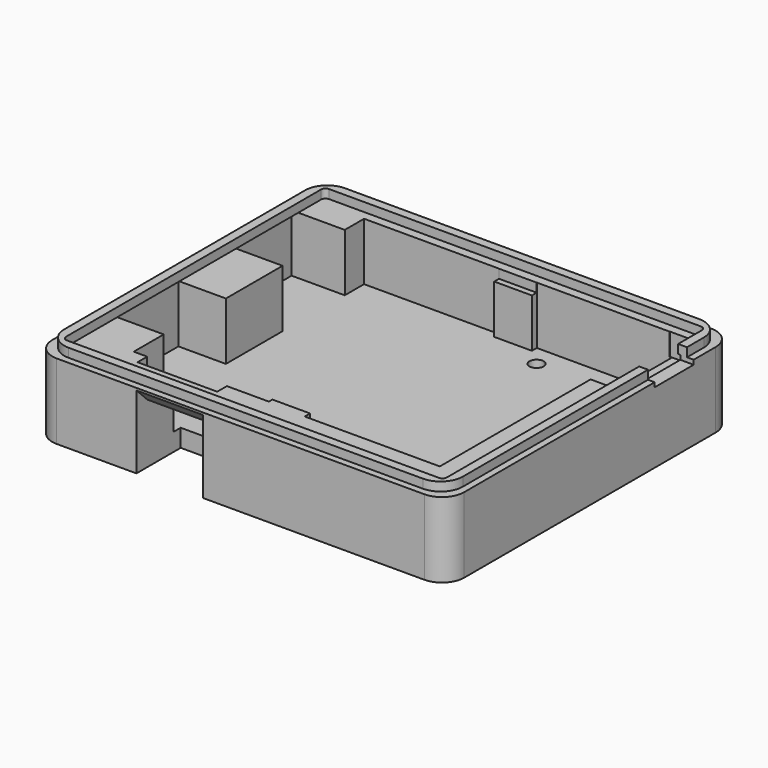
from build123d import *

# Parameters (mm, degrees)
SKETCH_W        = 93
SKETCH_H        = 81
PAD_DEPTH       = 17
SKETCH001_W     = 30.5
SKETCH001_H     = 65.5
POCKET_DEPTH    = 13
SKETCH002_W     = 30.5
SKETCH002_H     = 65
POCKET001_DEPTH = 13
SKETCH003_W     = 13.6458
SKETCH003_H     = 16
POCKET002_DEPTH = 13
SKETCH004_W     = 16.2724
SKETCH004_H     = 17.55
POCKET003_DEPTH = 13
SKETCH005_W     = 15.0186
SKETCH005_H     = 42.9244
POCKET004_DEPTH = 13
SKETCH006_W     = 15
SKETCH006_H     = 25.952942
POCKET005_DEPTH = 12
SKETCH007_W     = 18
SKETCH007_H     = 6.009419
POCKET006_DEPTH = 5
SKETCH009_W     = 7
SKETCH009_H     = 23
POCKET008_DEPTH = 5
SKETCH010_W     = 11.0603
SKETCH010_H     = 11
POCKET009_DEPTH = 1
SKETCH011_W     = 6.5
SKETCH011_H     = 6.5
POCKET010_DEPTH = 17.001
SKETCH014_W     = 16.1
SKETCH014_H     = 12
POCKET011_DEPTH = 5
SKETCH016_R     = 1.6
POCKET012_DEPTH = 12.001
SKETCH017_W     = 90
SKETCH017_H     = 78
SKETCH017_W_2   = 86
SKETCH017_H_2   = 74
PAD001_DEPTH    = 2
SKETCH021_W     = 7.24647
SKETCH021_H     = 11
POCKET013_DEPTH = 3
SKETCH020_R     = 2.8
POCKET014_DEPTH = 2
CHAMFER_SIZE    = 1.5
CHAMFER001_SIZE = 4.5
CHAMFER002_SIZE = 2
FILLET_R        = 1
FILLET001_R     = 5
FILLET002_R     = 5
SKETCH022_W     = 11.3729
SKETCH022_H     = 7.67559
POCKET015_DEPTH = 7
SKETCH023_W     = 9.10313
SKETCH023_H     = 1.48191
POCKET016_DEPTH = 2


with BuildPart() as part:
    # Sketch → Pad (new body)
    with BuildSketch(Plane.XY):
        with Locations((-1.5, 0)):
            Rectangle(SKETCH_W, SKETCH_H)
    extrude(amount=PAD_DEPTH)

    # Sketch001 → Pocket (cut)
    with BuildSketch(Plane.XY.offset(17)):
        with Locations((20.25, 2.25)):
            Rectangle(SKETCH001_W, SKETCH001_H)
    extrude(amount=-POCKET_DEPTH, mode=Mode.SUBTRACT)

    # Sketch002 → Pocket001 (cut)
    with BuildSketch(Plane.XY.offset(17)):
        with Locations((-18.75, 2.5)):
            Rectangle(SKETCH002_W, SKETCH002_H)
    extrude(amount=-POCKET001_DEPTH, mode=Mode.SUBTRACT)

    # Sketch003 → Pocket002 (cut)
    with BuildSketch(Plane.XY.offset(17)):
        with Locations((0, -15)):
            Rectangle(SKETCH003_W, SKETCH003_H)
    extrude(amount=-POCKET002_DEPTH, mode=Mode.SUBTRACT)

    # Sketch004 → Pocket003 (cut)
    with BuildSketch(Plane.XY.offset(17)):
        with Locations((-37.8638, 20.775)):
            Rectangle(SKETCH004_W, SKETCH004_H)
        with Locations((-36.586784, -12.775)):
            Rectangle(SKETCH004_W, SKETCH004_H)
    extrude(amount=-POCKET003_DEPTH, mode=Mode.SUBTRACT)

    # Sketch005 → Pocket004 (cut)
    with BuildSketch(Plane.XY.offset(17)):
        with Locations((0, 12.1505)):
            Rectangle(SKETCH005_W, SKETCH005_H)
    extrude(amount=-POCKET004_DEPTH, mode=Mode.SUBTRACT)

    # Sketch006 → Pocket005 (cut)
    with BuildSketch(Plane(origin=(0, 0, 0), x_dir=(1, 0, 0), z_dir=(0, 0, -1))):
        with Locations((-17.5, 40.976471)):
            Rectangle(SKETCH006_W, SKETCH006_H)
    extrude(amount=-POCKET005_DEPTH, mode=Mode.SUBTRACT)

    # Sketch007 → Pocket006 (cut)
    with BuildSketch(Plane.XY.offset(17)):
        with Locations((-21.9684, -29.726443)):
            Rectangle(SKETCH007_W, SKETCH007_H)
    extrude(amount=-POCKET006_DEPTH, mode=Mode.SUBTRACT)

    # Sketch009 → Pocket008 (cut)
    with BuildSketch(Plane.XY.offset(17)):
        with Locations((38.5, 23.5529)):
            Rectangle(SKETCH009_W, SKETCH009_H)
    extrude(amount=-POCKET008_DEPTH, mode=Mode.SUBTRACT)

    # Sketch010 → Pocket009 (cut)
    with BuildSketch(Plane.XY.offset(17)):
        with Locations((41.12507, 23.7601)):
            Rectangle(SKETCH010_W, SKETCH010_H)
    extrude(amount=-POCKET009_DEPTH, mode=Mode.SUBTRACT)

    # Sketch011 → Pocket010 (cut, through all)
    with BuildSketch(Plane(origin=(0, 0, 0), x_dir=(1, 0, 0), z_dir=(0, 0, -1))):
        with Locations((14.8666, 18.1696)):
            Rectangle(SKETCH011_W, SKETCH011_H)
    extrude(amount=-POCKET010_DEPTH, mode=Mode.SUBTRACT)

    # Sketch014 → Pocket011 (cut)
    with BuildSketch(Plane.YZ.offset(5)):
        with Locations((4.01337, 13)):
            Rectangle(SKETCH014_W, SKETCH014_H)
    extrude(amount=-POCKET011_DEPTH, mode=Mode.SUBTRACT)

    # Sketch016 → Pocket012 (cut, through all)
    with BuildSketch(Plane.XY.offset(12)):
        with Locations((8.75, 30.25)):
            Circle(SKETCH016_R)
        with Locations((31.25, 30.25)):
            Circle(SKETCH016_R)
        with Locations((8.75, -26.25)):
            Circle(SKETCH016_R)
        with Locations((31.25, -26.25)):
            Circle(SKETCH016_R)
    extrude(amount=-POCKET012_DEPTH, mode=Mode.SUBTRACT)

    # Sketch017 → Pad001 (new body)
    with BuildSketch(Plane.XY.offset(17)):
        with Locations((-1.5, 0)):
            Rectangle(SKETCH017_W, SKETCH017_H)
        with Locations((-1.5, 0)):
            Rectangle(SKETCH017_W_2, SKETCH017_H_2, mode=Mode.SUBTRACT)
    extrude(amount=PAD001_DEPTH)

    # Sketch021 → Pocket013 (cut)
    with BuildSketch(Plane.XY.offset(19)):
        with Locations((41.847535, 23.7642)):
            Rectangle(SKETCH021_W, SKETCH021_H)
    extrude(amount=-POCKET013_DEPTH, mode=Mode.SUBTRACT)

    # Sketch020 → Pocket014 (cut)
    with BuildSketch(Plane(origin=(0, 0, 0), x_dir=(1, 0, 0), z_dir=(0, 0, -1))):
        with Locations((8.75, 26.25)):
            Circle(SKETCH020_R)
        with Locations((31.23, 26.25)):
            Circle(SKETCH020_R)
        with Locations((8.75, -30.25)):
            Circle(SKETCH020_R)
        with Locations((31.23, -30.25)):
            Circle(SKETCH020_R)
    extrude(amount=-POCKET014_DEPTH, mode=Mode.SUBTRACT)

    # Chamfer
    chamfer_edges = [part.edges().sort_by_distance(p)[0] for p in [
        (14.8666, -21.4196, 0),
        (18.1166, -18.1696, 0),
        (14.8666, -14.9196, 0),
        (11.6166, -18.1696, 0),
    ]]
    chamfer(chamfer_edges, length=CHAMFER_SIZE)

    # Chamfer001
    chamfer001_edges = [part.edges().sort_by_distance(p)[0] for p in [
        (-17.5, -40.5, 12),
    ]]
    chamfer(chamfer001_edges, length=CHAMFER001_SIZE)

    # Chamfer002
    chamfer002_edges = [part.edges().sort_by_distance(p)[0] for p in [
        (-17.5, -36, 12),
    ]]
    chamfer(chamfer002_edges, length=CHAMFER002_SIZE)

    # Fillet
    fillet_edges = [part.edges().sort_by_distance(p)[0] for p in [
        (41.5, 37, 18),
        (41.5, -37, 18),
        (-44.5, 37, 18),
        (-44.5, -37, 18),
    ]]
    fillet(fillet_edges, radius=FILLET_R)

    # Fillet001
    fillet001_edges = [part.edges().sort_by_distance(p)[0] for p in [
        (-46.5, -39, 18),
        (-46.5, 39, 18),
        (43.5, 39, 18),
        (43.5, -39, 18),
    ]]
    fillet(fillet001_edges, radius=FILLET001_R)

    # Fillet002
    fillet002_edges = [part.edges().sort_by_distance(p)[0] for p in [
        (45, -40.5, 8.5),
        (-48, -40.5, 8.5),
        (-48, 40.5, 8.5),
        (45, 40.5, 8.5),
    ]]
    fillet(fillet002_edges, radius=FILLET002_R)

    # Sketch022 → Pocket015 (cut)
    with BuildSketch(Plane.XY.offset(17)):
        with Locations((0.24661, -25.155595)):
            Rectangle(SKETCH022_W, SKETCH022_H)
    extrude(amount=-POCKET015_DEPTH, mode=Mode.SUBTRACT)

    # Sketch023 → Pocket016 (cut)
    with BuildSketch(Plane.XY.offset(17)):
        with Locations((0.792355, 34.227255)):
            Rectangle(SKETCH023_W, SKETCH023_H)
    extrude(amount=-POCKET016_DEPTH, mode=Mode.SUBTRACT)


solid = part.part
